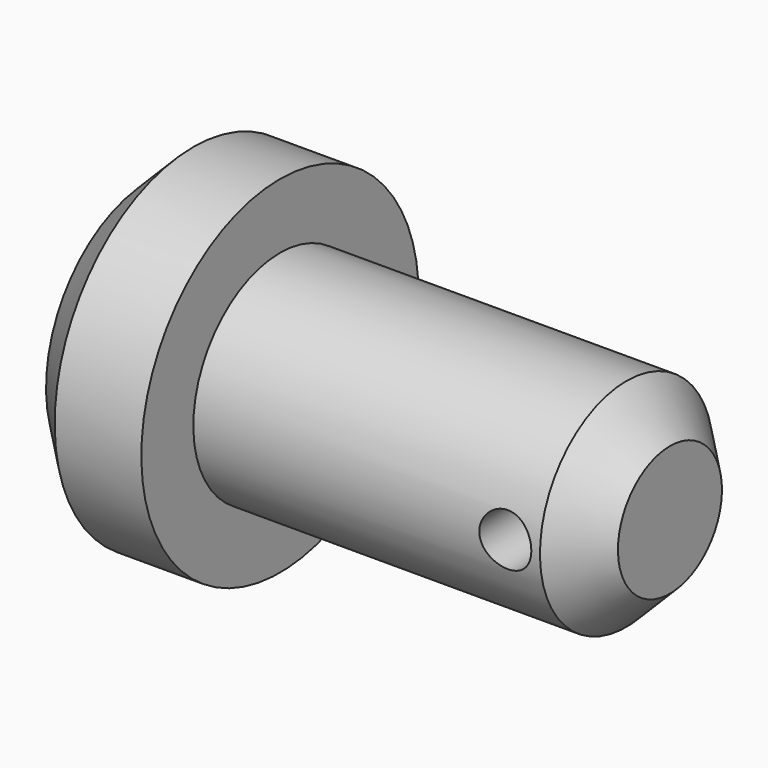
from build123d import *

# Parameters (mm, degrees)
F2_SIZE2      = 10
F2_SIZE       = 10
F3_R          = 6
F4_DEPTH      = 40.001
F4_DEPTH_BACK = 40.001


with BuildPart() as f1:
    # F0 (on Front) → F1 (revolve)
    with BuildSketch(Plane.XZ):
        Polygon((-120, 0), (0, 0), (0, 25), (-90, 25), (-90, 40), (-120, 40), align=None)
    revolve(axis=Axis((-60, 0, 0), (1, 0, 0)))

    # F2
    f2_edges = [f1.edges().sort_by_distance(p)[0] for p in [
        (-120, 0, -40),
        (0, 0, -25),
    ]]
    chamfer(f2_edges, length=F2_SIZE, length2=F2_SIZE2)

    # F3 (on Front) → F4 (cut, two sides)
    with BuildSketch(Plane.XZ) as f4_sk:
        with Locations((-18, 0)):
            Circle(F3_R)
    extrude(amount=-F4_DEPTH, mode=Mode.SUBTRACT)
    extrude(f4_sk.sketch, amount=F4_DEPTH_BACK, mode=Mode.SUBTRACT)


solid = f1.part
